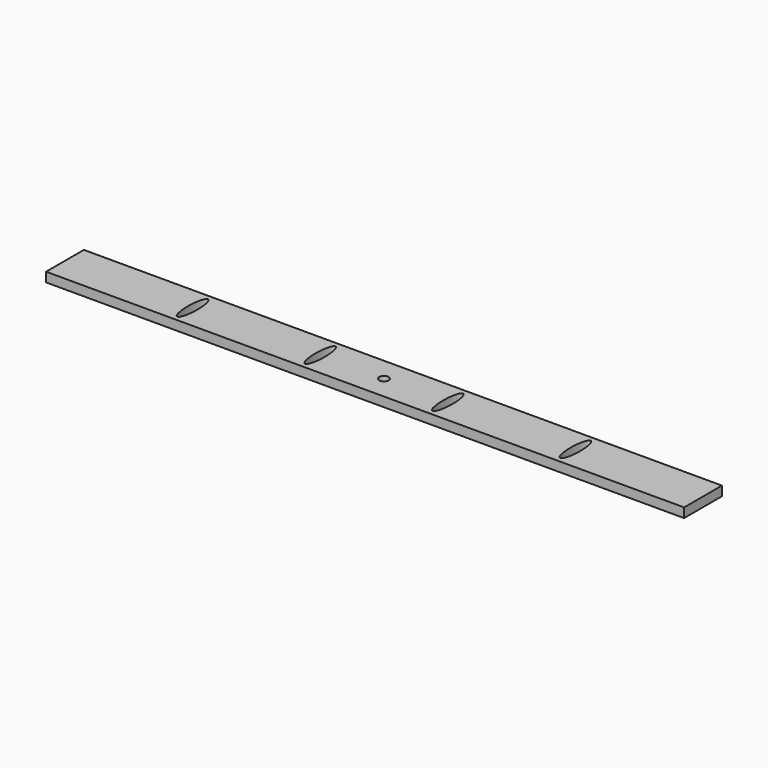
from build123d import *

# Parameters (mm, degrees)
F0_W     = 135
F0_H     = 10
F0_R     = 1
F1_DEPTH = 2


with BuildPart() as f1:
    # F0 (on Top) → F1 (new body)
    with BuildSketch(Plane.XY):
        Rectangle(F0_W, F0_H)
        with BuildLine():
            add(Edge.make_bspline(
                [(-40.5, 4), (-42.232051, 4), (-41.366025, -2), (-40.5, -8), (-39.633975, -2), (-38.767949, 4), (-40.5, 4)],
                knots=[0, 0, 0, 2.094395, 2.094395, 4.18879, 4.18879, 6.283185, 6.283185, 6.283185], degree=2, weights=[1, 0.5, 1, 0.5, 1, 0.5, 1]))
        make_face(mode=Mode.SUBTRACT)
        with BuildLine():
            add(Edge.make_bspline(
                [(-13.5, 4), (-15.232051, 4), (-14.366025, -2), (-13.5, -8), (-12.633975, -2), (-11.767949, 4), (-13.5, 4)],
                knots=[0, 0, 0, 2.094395, 2.094395, 4.18879, 4.18879, 6.283185, 6.283185, 6.283185], degree=2, weights=[1, 0.5, 1, 0.5, 1, 0.5, 1]))
        make_face(mode=Mode.SUBTRACT)
        Circle(F0_R, mode=Mode.SUBTRACT)
        with BuildLine():
            add(Edge.make_bspline(
                [(13.5, 4), (11.767949, 4), (12.633975, -2), (13.5, -8), (14.366025, -2), (15.232051, 4), (13.5, 4)],
                knots=[0, 0, 0, 2.094395, 2.094395, 4.18879, 4.18879, 6.283185, 6.283185, 6.283185], degree=2, weights=[1, 0.5, 1, 0.5, 1, 0.5, 1]))
        make_face(mode=Mode.SUBTRACT)
        with BuildLine():
            add(Edge.make_bspline(
                [(40.5, 4), (38.767949, 4), (39.633975, -2), (40.5, -8), (41.366025, -2), (42.232051, 4), (40.5, 4)],
                knots=[0, 0, 0, 2.094395, 2.094395, 4.18879, 4.18879, 6.283185, 6.283185, 6.283185], degree=2, weights=[1, 0.5, 1, 0.5, 1, 0.5, 1]))
        make_face(mode=Mode.SUBTRACT)
    extrude(amount=F1_DEPTH)


solid = f1.part
